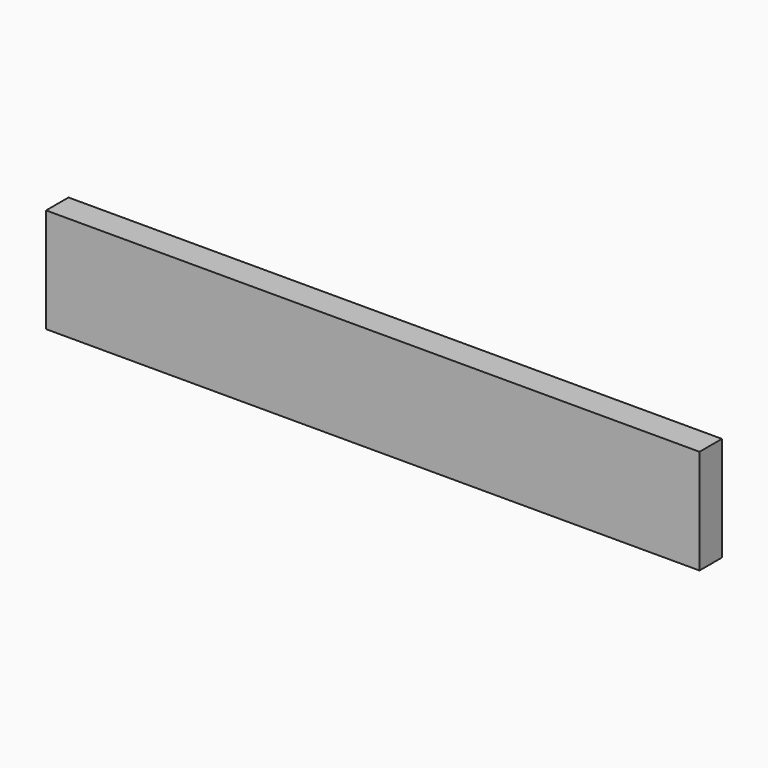
from build123d import *

# Parameters (mm, degrees)
SKETCH_W  = 350
SKETCH_H  = 15
PAD_DEPTH = 56


with BuildPart() as part:
    # Sketch → Pad (new body)
    with BuildSketch(Plane.XY):
        with Locations((175, 7.5)):
            Rectangle(SKETCH_W, SKETCH_H)
    extrude(amount=PAD_DEPTH)


solid = part.part
